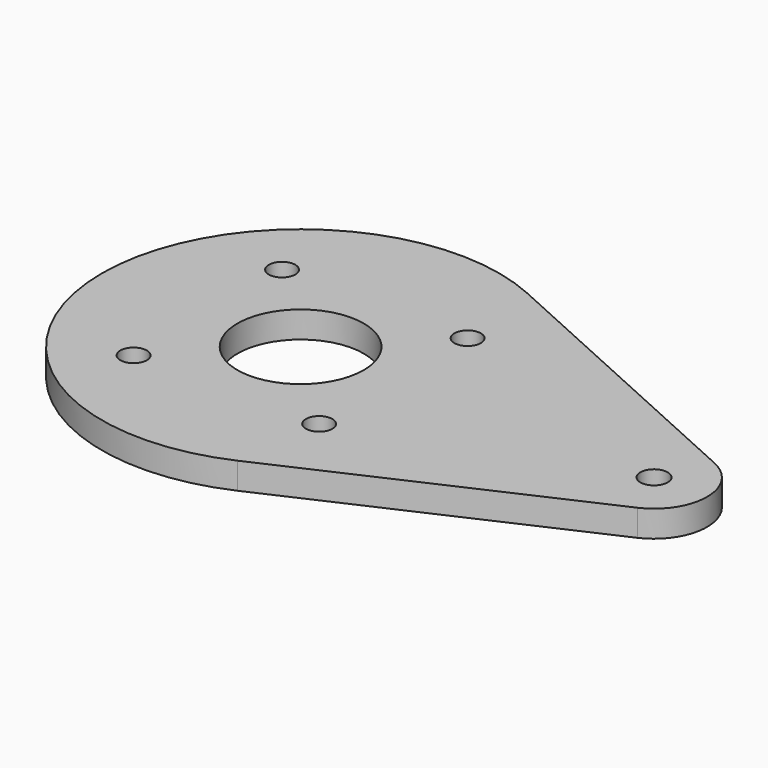
from build123d import *

# Parameters (mm, degrees)
SKETCH_R     = 14.3
SKETCH_R_2   = 3.1
PAD_DEPTH    = 6
SKETCH001_R  = 3
POCKET_DEPTH = 10


with BuildPart() as part:
    # Sketch → Pad (new body)
    with BuildSketch(Plane.XY):
        with BuildLine():
            ThreePointArc((18.562462, 40.993109), (-45, 0), (18.562462, -40.993109))
            Line((18.562462, -40.993109), (84.949967, -10.931506))
            ThreePointArc((84.949967, -10.931506), (92, 0), (84.949967, 10.931506))
            Line((18.562462, 40.993109), (84.949967, 10.931506))
        make_face()
        Circle(SKETCH_R, mode=Mode.SUBTRACT)
        with Locations((80, 0)):
            Circle(SKETCH_R_2, mode=Mode.SUBTRACT)
    extrude(amount=PAD_DEPTH)

    # Sketch001 → Pocket (cut)
    with BuildSketch(Plane.XY.offset(6)):
        with Locations((-21.001071, 21.001071)):
            Circle(SKETCH001_R)
        with Locations((21.001071, 21.001071)):
            Circle(SKETCH001_R)
        with Locations((-21.001071, -21.001071)):
            Circle(SKETCH001_R)
        with Locations((21.001071, -21.001071)):
            Circle(SKETCH001_R)
    extrude(amount=-POCKET_DEPTH, mode=Mode.SUBTRACT)


solid = part.part
